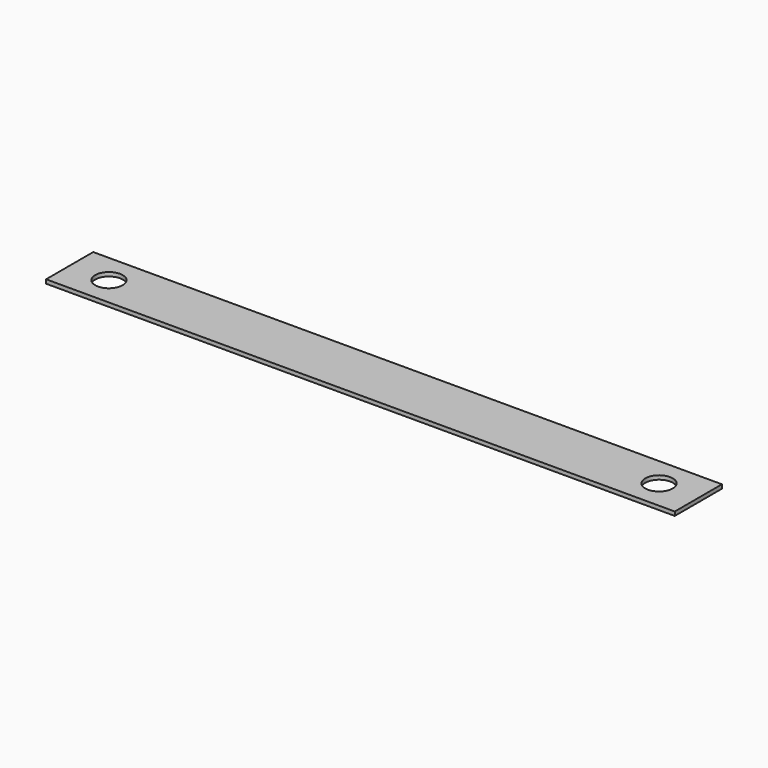
from build123d import *

# Parameters (mm, degrees)
F1_W     = 320
F1_H     = 30
F1_R     = 7
F2_DEPTH = 1


with BuildPart() as f2:
    # F1 (on face) → F2 (new body, symmetric)
    with BuildSketch(Plane.XY):
        Rectangle(F1_W, F1_H)
        with Locations((-140, 0)):
            Circle(F1_R, mode=Mode.SUBTRACT)
        with Locations((140, 0)):
            Circle(F1_R, mode=Mode.SUBTRACT)
    extrude(amount=F2_DEPTH, both=True)


solid = f2.part
